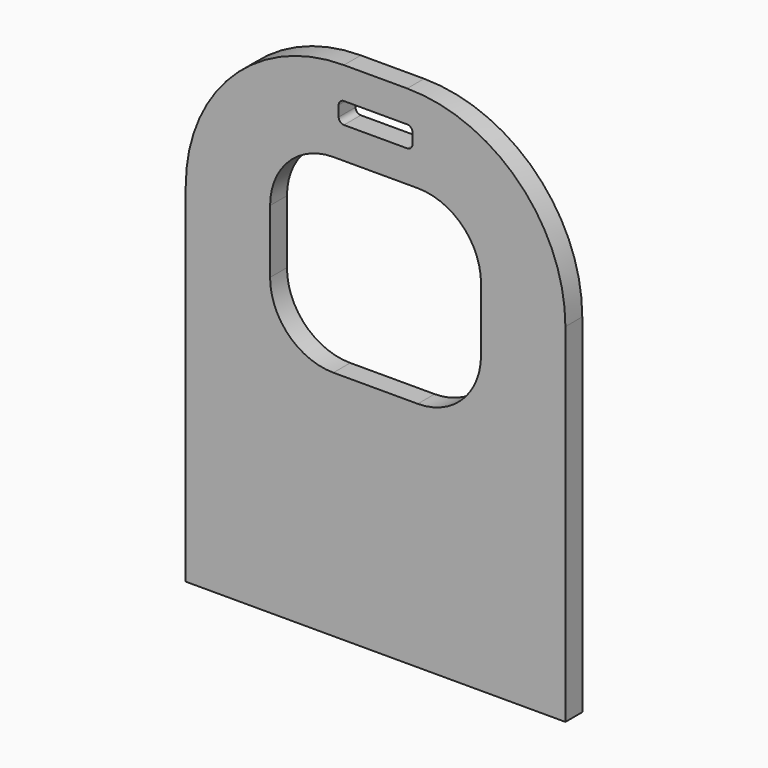
from build123d import *

# Parameters (mm, degrees)
F1_DEPTH = 25.4


with BuildPart() as f1:
    # F0 (on Front) → F1 (new body, symmetric)
    with BuildSketch(Plane.XZ):
        with BuildLine():
            Line((-457.2, 838.2), (-457.2, 0))
            Line((-457.2, 0), (457.2, 0))
            Line((457.2, 0), (457.2, 838.2))
            ThreePointArc((457.2, 838.2), (345.6076836321, 1107.6076836321), (76.2, 1219.2))
            Line((76.2, 1219.2), (-76.2, 1219.2))
            ThreePointArc((-76.2, 1219.2), (-345.6076836321, 1107.6076836321), (-457.2, 838.2))
        make_face()
        with BuildLine():
            Line((76.2, 1092.2), (-76.2, 1092.2))
            ThreePointArc((-76.2, 1092.2), (-85.1802561211, 1095.9197438789), (-88.9, 1104.9))
            Line((-88.9, 1104.9), (-88.9, 1130.3))
            ThreePointArc((-88.9, 1130.3), (-85.1802561211, 1139.2802561211), (-76.2, 1143))
            Line((-76.2, 1143), (76.2, 1143))
            ThreePointArc((76.2, 1143), (85.1802561211, 1139.2802561211), (88.9, 1130.3))
            Line((88.9, 1130.3), (88.9, 1104.9))
            ThreePointArc((88.9, 1104.9), (85.1802561211, 1095.9197438789), (76.2, 1092.2))
        make_face(mode=Mode.SUBTRACT)
        with BuildLine():
            ThreePointArc((254, 711.2), (209.3630734528, 603.4369265472), (101.6, 558.8))
            Line((101.6, 558.8), (-101.6, 558.8))
            ThreePointArc((-101.6, 558.8), (-209.3630734528, 603.4369265472), (-254, 711.2))
            Line((-254, 711.2), (-254, 863.6))
            ThreePointArc((-254, 863.6), (-209.3630734528, 971.3630734528), (-101.6, 1016))
            Line((-101.6, 1016), (101.6, 1016))
            ThreePointArc((101.6, 1016), (209.3630734528, 971.3630734528), (254, 863.6))
            Line((254, 863.6), (254, 711.2))
        make_face(mode=Mode.SUBTRACT)
    extrude(amount=F1_DEPTH, both=True)


solid = f1.part
